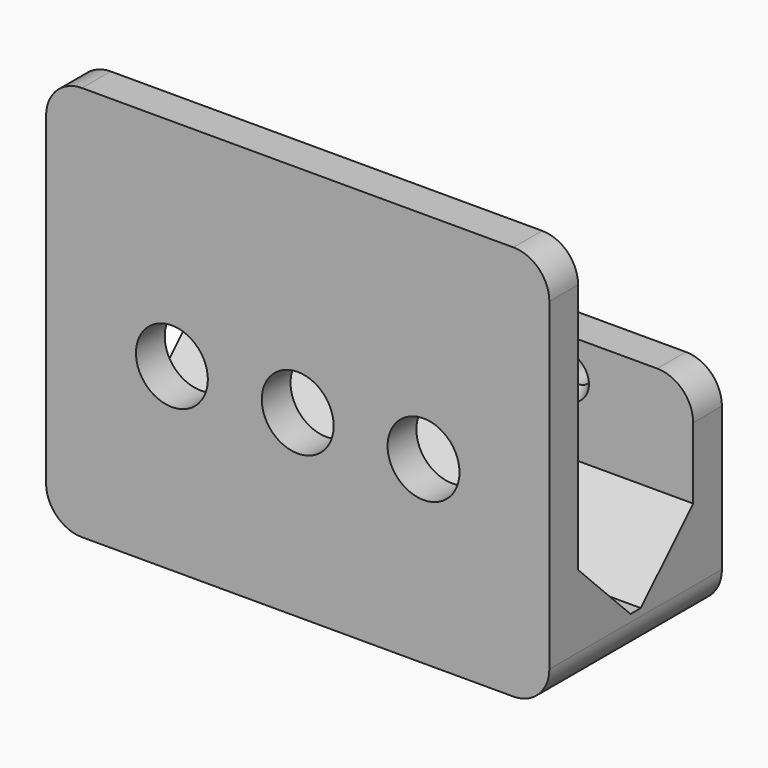
from build123d import *

# Parameters (mm, degrees)
CYLINDER001_R         = 1.8
CYLINDER001_DEPTH     = 5
CYLINDER_R            = 5
CYLINDER_DEPTH        = 30
ARRAY_X_COUNT         = 3
ARRAY_X_PITCH         = 17.5
ARRAY_PLACEMENT_ANGLE = 90
BOX001_W              = 70
BOX001_H              = 20
BOX001_DEPTH          = 50
BOX002_W              = 70
BOX002_H              = 15
BOX002_DEPTH          = 30
FILLET002_R           = 5
BOX_W                 = 70
BOX_H                 = 15
BOX_DEPTH             = 55
FILLET001_R           = 5
CHAMFER_SIZE          = 9.1


with BuildPart() as screw_hole:
    # Cylinder001 → Cylinder001 (new body)
    with BuildSketch(Plane.XY):
        Circle(CYLINDER001_R)
    extrude(amount=CYLINDER001_DEPTH)


with BuildPart() as screw_driver_hole:
    # Cylinder → Cylinder (new body)
    with BuildSketch(Plane.XY.offset(7)):
        Circle(CYLINDER_R)
    extrude(amount=CYLINDER_DEPTH)


with BuildPart() as hole_array:
    # Cone → Cone (revolve)
    with BuildSketch(Plane(origin=(0, 0, 5), x_dir=(1, 0, 0), z_dir=(0, -1, 0))):
        Polygon((0, 0), (1.8, 0), (3, 2), (0, 2), align=None)
    revolve(axis=Axis((0, 0, 5), (0, 0, 1)))

    # Fusion: union screw hole, screw driver hole
    add(screw_hole.part)
    add(screw_driver_hole.part)

    # Array X: hole array ×3


with BuildPart() as hole_array_1:
    add(hole_array.part)
    with Locations(*[(i * ARRAY_X_PITCH, 0, 0) for i in range(1, ARRAY_X_COUNT)]):
        add(hole_array.part)


with BuildPart() as hole_array_2:
    # Array placement: moved
    add(hole_array_1.part.moved(Location((17.5, 32, 25))).rotate(Axis((17.5, 32, 25), (1, 0, 0)), ARRAY_PLACEMENT_ANGLE))


with BuildPart() as internal_cube:
    # Box001 → Box001 (new body)
    with BuildSketch(Plane(origin=(0, 5, 6), x_dir=(1, 0, 0), z_dir=(0, 0, 1))):
        with Locations((35, 10)):
            Rectangle(BOX001_W, BOX001_H)
    extrude(amount=BOX001_DEPTH)


with BuildPart() as external_hole_side_half_fillet:
    # Box002 → Box002 (new body)
    with BuildSketch(Plane(origin=(0, 15, 0), x_dir=(1, 0, 0), z_dir=(0, 0, 1))):
        with Locations((35, 7.5)):
            Rectangle(BOX002_W, BOX002_H)
    extrude(amount=BOX002_DEPTH)

    # Fillet002
    fillet002_edges = [external_hole_side_half_fillet.edges().sort_by_distance(p)[0] for p in [
        (0, 22.5, 30),
        (0, 22.5, 0),
        (70, 22.5, 30),
        (70, 22.5, 0),
    ]]
    fillet(fillet002_edges, radius=FILLET002_R)


with BuildPart() as wire_hanger_cut001:
    # Box → Box (new body)
    with BuildSketch(Plane.XY):
        with Locations((35, 7.5)):
            Rectangle(BOX_W, BOX_H)
    extrude(amount=BOX_DEPTH)

    # Fillet001
    fillet001_edges = [wire_hanger_cut001.edges().sort_by_distance(p)[0] for p in [
        (0, 7.5, 55),
        (0, 7.5, 0),
        (70, 7.5, 55),
        (70, 7.5, 0),
    ]]
    fillet(fillet001_edges, radius=FILLET001_R)

    # Fusion001: union external hole side half fillet
    add(external_hole_side_half_fillet.part)

    # Cut: cut internal cube
    add(internal_cube.part, mode=Mode.SUBTRACT)

    # Chamfer
    chamfer_edges = [wire_hanger_cut001.edges().sort_by_distance(p)[0] for p in [
        (35, 5, 6),
        (35, 25, 6),
    ]]
    chamfer(chamfer_edges, length=CHAMFER_SIZE)

    # Cut001: cut hole array
    add(hole_array_2.part, mode=Mode.SUBTRACT)


solid = wire_hanger_cut001.part
